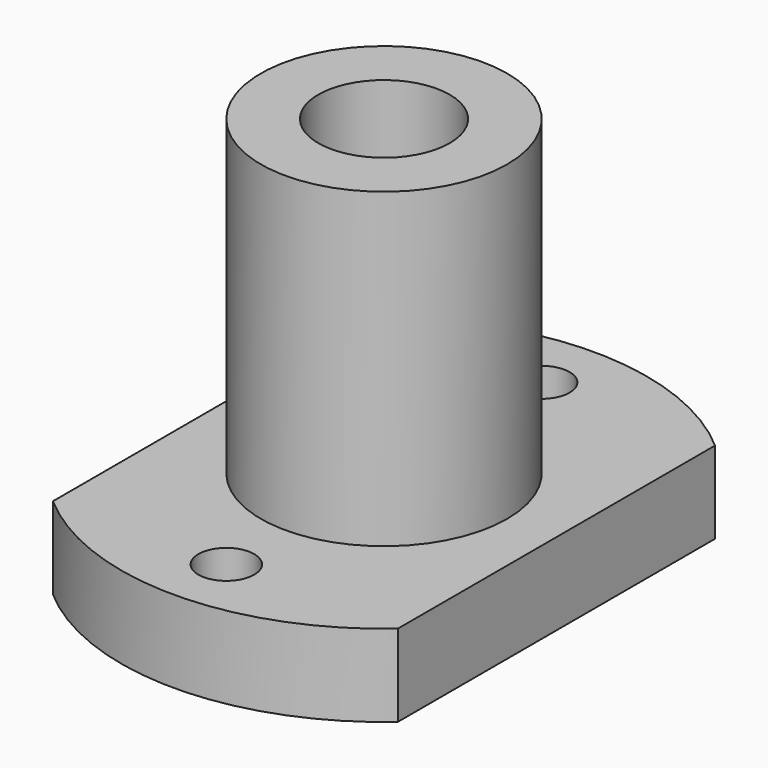
from build123d import *

# Parameters (mm, degrees)
POCKET_DEPTH      = 102.450988
POCKET_DEPTH_BACK = 126.450988
HOLE_D            = 3.4
HOLE_CBORE_D      = 6
HOLE_CBORE_DEPTH  = 3.1


with BuildPart() as part:
    # Sketch → Revolution (revolve)
    with BuildSketch(Plane.XZ):
        Polygon((16, 0), (16, 5), (7.5, 5), (7.5, 24), (4, 24), (4, 0), align=None)
    revolve(axis=Axis((0, 0, 0), (0, 0, 1)))

    # Sketch001 → Pocket (cut, two sides)
    with BuildSketch(Plane.XY) as pocket_sk:
        Polygon((10.5, 20), (50.5, 20), (50.5, -20), (10.5, -20), (10.5, 0), align=None)
    pocket = extrude(amount=-POCKET_DEPTH, mode=Mode.SUBTRACT) + extrude(pocket_sk.sketch, amount=POCKET_DEPTH_BACK, mode=Mode.SUBTRACT)

    # Mirrored: Pocket across Sketch001 V_Axis
    add(pocket.mirror(Plane(origin=(0, 0, 0), x_dir=(0, 0, 1), z_dir=(1, 0, 0))), mode=Mode.SUBTRACT)

    # Hole (through all)
    with Locations(Plane(origin=(0, 0, 0), x_dir=(1, 0, 0), z_dir=(0, 0, -1))):
        with Locations((0, -12), (0, 12)):
            CounterBoreHole(HOLE_D / 2, HOLE_CBORE_D / 2, HOLE_CBORE_DEPTH)


solid = part.part
